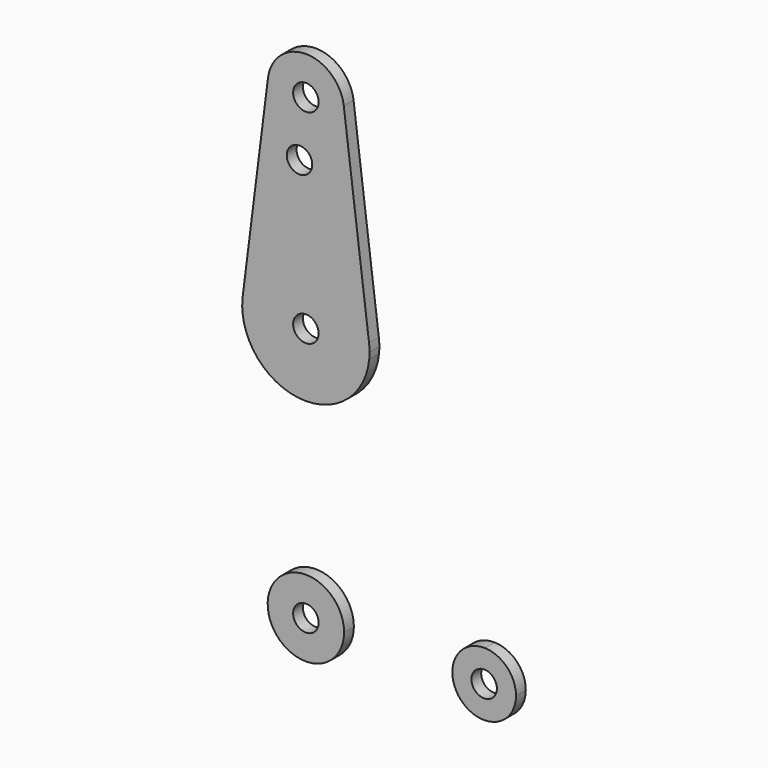
from build123d import *

# Parameters (mm, degrees)
F0_R     = 3.175
F1_DEPTH = 3.048


with BuildPart() as f1:
    # F0 (on Front) → F1 (new body)
    with BuildSketch(Plane.XZ):
        with BuildLine():
            Line((-9.450293, 115.490625), (-15.750488, 65.484375))
            ThreePointArc((-15.750488, 65.484375), (0, 79.375), (15.750488, 65.484375))
            Line((15.750488, 65.484375), (9.450293, 115.490625))
            ThreePointArc((9.450293, 115.490625), (9.506305, 114.896483), (9.525, 114.3))
            ThreePointArc((9.525, 114.3), (-0.596483, 104.793695), (-9.450293, 115.490625))
        make_face()
        with Locations((-1.5875, 100.0252)):
            Circle(F0_R, mode=Mode.SUBTRACT)
        with BuildLine():
            ThreePointArc((0.677344, -9.500886), (6.970557, -6.491299), (9.525, 0))
            ThreePointArc((9.525, 0), (-6.735192, 6.735192), (0, -9.525))
            Line((0, -9.525), (0.677344, -9.500886))
        make_face()
        Circle(F0_R, mode=Mode.SUBTRACT)
        with BuildLine():
            ThreePointArc((-15.795426, 61.9125), (0, 47.625), (15.795426, 61.9125))
            ThreePointArc((15.795426, 61.9125), (15.855094, 62.705253), (15.875, 63.5))
            ThreePointArc((15.875, 63.5), (15.843841, 64.494139), (15.750488, 65.484375))
            ThreePointArc((15.750488, 65.484375), (0, 79.375), (-15.750488, 65.484375))
            ThreePointArc((-15.750488, 65.484375), (-15.873744, 63.699705), (-15.795426, 61.9125))
        make_face()
        with Locations((0, 63.5)):
            Circle(F0_R, mode=Mode.SUBTRACT)
        with BuildLine():
            ThreePointArc((9.450293, 115.490625), (0, 123.825), (-9.450293, 115.490625))
            ThreePointArc((-9.450293, 115.490625), (-0.596483, 104.793695), (9.525, 114.3))
            ThreePointArc((9.525, 114.3), (9.506305, 114.896483), (9.450293, 115.490625))
        make_face()
        with Locations((0, 114.3)):
            Circle(F0_R, mode=Mode.SUBTRACT)
        with BuildLine():
            ThreePointArc((44.604839, 7.93599), (36.512756, -0.063807), (44.732405, -7.932475))
            ThreePointArc((44.732405, -7.932475), (50.161633, -5.51191), (52.3875, 0))
            ThreePointArc((52.3875, 0), (50.11714, 5.557647), (44.604839, 7.93599))
        make_face()
        with Locations((44.45, 0)):
            Circle(F0_R, mode=Mode.SUBTRACT)
    extrude(amount=F1_DEPTH)


solid = f1.part
